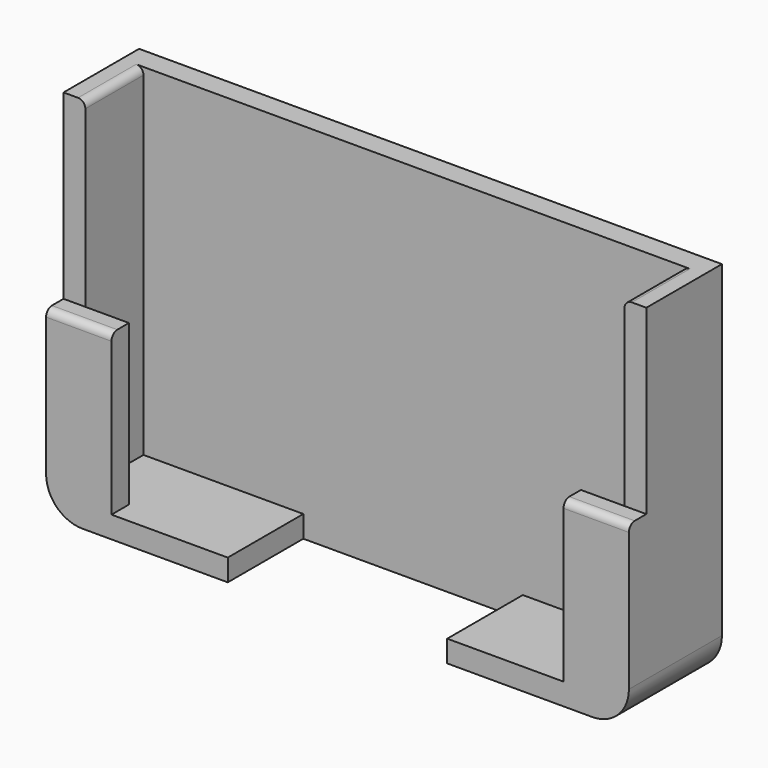
from build123d import *

# Parameters (mm, degrees)
F0_W     = 80.2
F0_H     = 50
F1_DEPTH = 3
F2_W     = 3
F2_H     = 47
F2_H_2   = 3
F2_W_2   = 22
F3_DEPTH = 10
F4_W     = 6
F4_H     = 22
F4_W_2   = 16
F4_H_2   = 3
F5_DEPTH = 3
F6_R     = 5
F7_R     = 1


with BuildPart() as f1:
    # F0 (on Front) → F1 (new body)
    with BuildSketch(Plane.XZ):
        with Locations((0, 25)):
            Rectangle(F0_W, F0_H)
    extrude(amount=F1_DEPTH)

    # F2 (on face) → F3 (join)
    with BuildSketch(Plane.XZ.offset(3)):
        with Locations((-38.6, 26.5)):
            Rectangle(F2_W, F2_H)
        with Locations((-38.6, 1.5)):
            Rectangle(F2_W, F2_H_2)
        with Locations((-26.1, 1.5)):
            Rectangle(F2_W_2, F2_H_2)
        with Locations((26.1, 1.5)):
            Rectangle(F2_W_2, F2_H_2)
        with Locations((38.6, 1.5)):
            Rectangle(F2_W, F2_H_2)
        with Locations((38.6, 26.5)):
            Rectangle(F2_W, F2_H)
    extrude(amount=F3_DEPTH)

    # F4 (on face) → F5 (join)
    with BuildSketch(Plane.XZ.offset(13)):
        with Locations((34.1, 14)):
            Rectangle(F4_W, F4_H)
        with Locations((23.1, 1.5)):
            Rectangle(F4_W_2, F4_H_2)
        Polygon((37.1, 25), (37.1, 3), (31.1, 3), (31.1, 0), (40.1, 0), (40.1, 25), align=None)
        with Locations((-34.1, 14)):
            Rectangle(F4_W, F4_H)
        Polygon((-40.1, 25), (-40.1, 0), (-31.1, 0), (-31.1, 3), (-37.1, 3), (-37.1, 25), align=None)
        with Locations((-23.1, 1.5)):
            Rectangle(F4_W_2, F4_H_2)
    extrude(amount=F5_DEPTH)

    # F6
    f6_edges = [f1.edges().sort_by_distance(p)[0] for p in [
        (40.1, -8, 0),
        (-40.1, -8, 0),
    ]]
    fillet(f6_edges, radius=F6_R)

    # F7
    f7_edges = [f1.edges().sort_by_distance(p)[0] for p in [
        (-35.6, -16, 25),
        (35.6, -16, 25),
        (-37.1, -8, 50),
        (37.1, -8, 50),
    ]]
    fillet(f7_edges, radius=F7_R)


solid = f1.part
